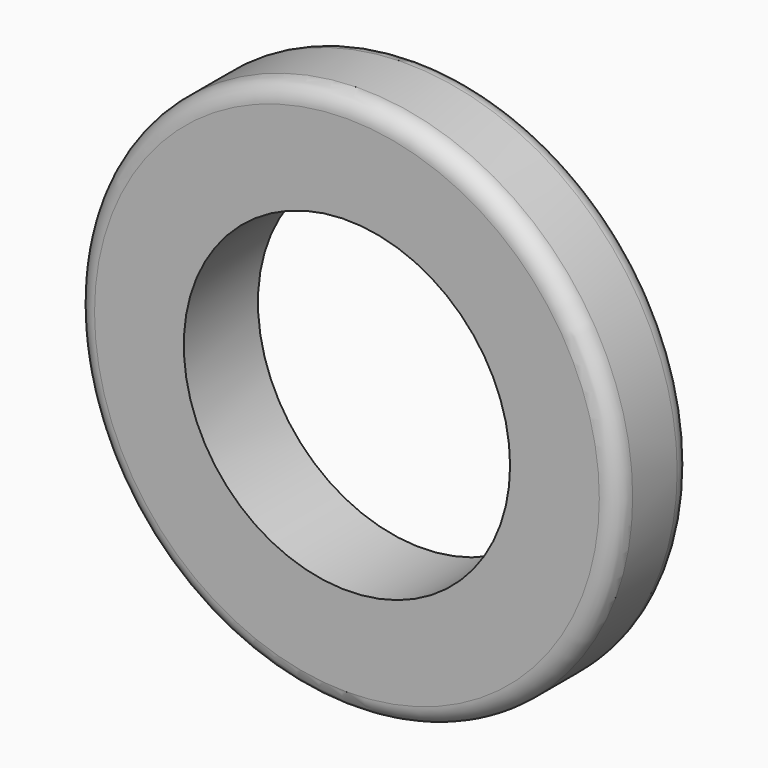
from build123d import *

# Parameters (mm, degrees)
F0_R     = 74.258017
F1_DEPTH = 25.4
F2_R     = 44.71295
F3_DEPTH = 25.4
F4_R     = 5.08


with BuildPart() as f1:
    # F0 (on Front) → F1 (new body)
    with BuildSketch(Plane.XZ):
        Circle(F0_R)
    extrude(amount=F1_DEPTH)

    # F2 (on face) → F3 (cut)
    with BuildSketch(Plane.XZ.offset(25.4)):
        Circle(F2_R)
    extrude(amount=-F3_DEPTH, mode=Mode.SUBTRACT)

    # F4
    f4_edges = [f1.edges().sort_by_distance(p)[0] for p in [
        (-74.258017, -25.4, 0),
        (-74.258017, 0, 0),
    ]]
    fillet(f4_edges, radius=F4_R)


solid = f1.part
